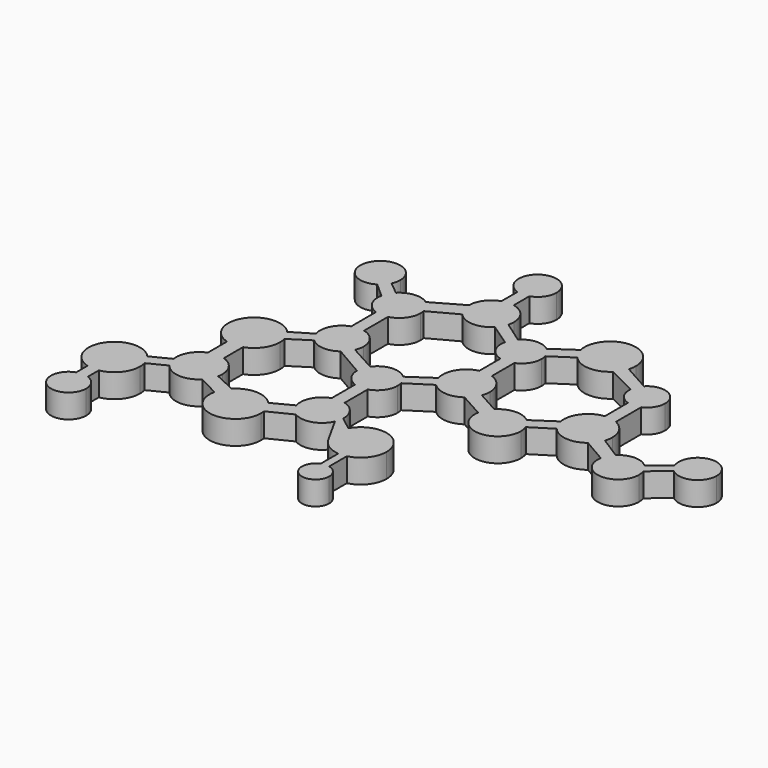
from build123d import *

# Parameters (mm, degrees)
F1_DEPTH = 5


with BuildPart() as f1:
    # F0 (on Top) → F1 (new body)
    with BuildSketch(Plane.XY):
        with BuildLine():
            ThreePointArc((-2.512901, 28.348197), (-2.385197, 28.974686), (-2.342373, 29.612623))
            ThreePointArc((-2.342373, 29.612623), (-3.406358, 32.616741), (-6.12395, 34.281519))
            ThreePointArc((-6.12395, 34.281519), (-7.376075, 34.378495), (-8.610151, 34.145518))
            ThreePointArc((-8.610151, 34.145518), (-10.959029, 32.442428), (-11.88768, 29.693728))
            ThreePointArc((-11.88768, 29.693728), (-11.593923, 27.962144), (-10.693759, 26.454039))
            ThreePointArc((-10.693759, 26.454039), (-7.24125, 24.841285), (-3.708507, 26.269752))
            ThreePointArc((-3.708507, 26.269752), (-2.97806, 27.232673), (-2.512901, 28.348197))
        make_face()
        with BuildLine():
            ThreePointArc((-8.610151, 34.145518), (-7.376075, 34.378495), (-6.12395, 34.281519))
            Line((-6.12395, 34.281519), (-6.12395, 38.365381))
            ThreePointArc((-6.12395, 38.365381), (-7.365254, 38.155358), (-8.610151, 38.342921))
            Line((-8.610151, 38.342921), (-8.610151, 34.145518))
        make_face()
        with BuildLine():
            Line((2.028401, 25.147591), (-2.512901, 28.348197))
            ThreePointArc((-2.512901, 28.348197), (-2.97806, 27.232673), (-3.708507, 26.269752))
            Line((-3.708507, 26.269752), (0.956797, 23.122228))
            ThreePointArc((0.956797, 23.122228), (1.354238, 24.208115), (2.028401, 25.147591))
        make_face()
        with BuildLine():
            ThreePointArc((-8.610151, 38.342921), (-7.365254, 38.155358), (-6.12395, 38.365381))
            ThreePointArc((-6.12395, 38.365381), (-4.162281, 39.817822), (-3.415, 42.14146))
            ThreePointArc((-3.415, 42.14146), (-9.754068, 45.359321), (-8.610151, 38.342921))
        make_face()
        with BuildLine():
            ThreePointArc((7.768494, 25.568769), (4.816849, 26.470256), (2.028401, 25.147591))
            ThreePointArc((2.028401, 25.147591), (1.354238, 24.208115), (0.956797, 23.122228))
            ThreePointArc((0.956797, 23.122228), (1.479569, 19.992557), (4.016816, 18.087169))
            ThreePointArc((4.016816, 18.087169), (5.418854, 17.949533), (6.789399, 18.275511))
            ThreePointArc((6.789399, 18.275511), (8.688275, 19.849404), (9.400389, 22.21071))
            ThreePointArc((9.400389, 22.21071), (9.361672, 22.78449), (9.246222, 23.347867))
            ThreePointArc((9.246222, 23.347867), (8.685198, 24.576648), (7.768494, 25.568769))
        make_face()
        with BuildLine():
            ThreePointArc((-10.693759, 26.454039), (-11.593923, 27.962144), (-11.88768, 29.693728))
            Line((-11.88768, 29.693728), (-18.130669, 26.134193))
            ThreePointArc((-18.130669, 26.134193), (-16.995943, 24.930095), (-16.372826, 23.397392))
            Line((-16.372826, 23.397392), (-10.693759, 26.454039))
        make_face()
        with BuildLine():
            Line((12.37725, 28.724332), (7.768494, 25.568769))
            ThreePointArc((7.768494, 25.568769), (8.685198, 24.576648), (9.246222, 23.347867))
            Line((9.246222, 23.347867), (13.650385, 26.263589))
            ThreePointArc((13.650385, 26.263589), (12.85362, 27.411078), (12.37725, 28.724332))
        make_face()
        with BuildLine():
            ThreePointArc((-16.372826, 23.397392), (-16.995943, 24.930095), (-18.130669, 26.134193))
            ThreePointArc((-18.130669, 26.134193), (-21.155864, 26.983721), (-23.999866, 25.647622))
            ThreePointArc((-23.999866, 25.647622), (-24.774722, 24.580752), (-25.207246, 23.335145))
            ThreePointArc((-25.207246, 23.335145), (-24.684787, 20.249558), (-22.277385, 18.25))
            ThreePointArc((-22.277385, 18.25), (-20.982767, 17.999458), (-19.671088, 18.134767))
            ThreePointArc((-19.671088, 18.134767), (-17.228762, 19.735), (-16.281887, 22.497089))
            ThreePointArc((-16.281887, 22.497089), (-16.30468, 22.949531), (-16.372826, 23.397392))
        make_face()
        with BuildLine():
            ThreePointArc((23.068472, 29.897043), (17.068672, 35.274716), (12.37725, 28.724332))
            ThreePointArc((12.37725, 28.724332), (12.85362, 27.411078), (13.650385, 26.263589))
            ThreePointArc((13.650385, 26.263589), (17.457176, 24.490864), (21.385296, 25.975481))
            ThreePointArc((21.385296, 25.975481), (22.264261, 27.058963), (22.836908, 28.331199))
            ThreePointArc((22.836908, 28.331199), (23.010268, 29.105606), (23.068472, 29.897043))
        make_face()
        with BuildLine():
            ThreePointArc((-25.207246, 23.335145), (-24.774722, 24.580752), (-23.999866, 25.647622))
            Line((-23.999866, 25.647622), (-26.671424, 27.801608))
            ThreePointArc((-26.671424, 27.801608), (-27.335546, 26.808584), (-28.252173, 26.042457))
            Line((-28.252173, 26.042457), (-25.207246, 23.335145))
        make_face()
        with BuildLine():
            ThreePointArc((6.789399, 12.377739), (5.414321, 12.653934), (4.016816, 12.535176))
            ThreePointArc((4.016816, 12.535176), (0.854564, 10.22449), (0.345998, 6.341131))
            ThreePointArc((0.345998, 6.341131), (0.83709, 5.183793), (1.602744, 4.18661))
            ThreePointArc((1.602744, 4.18661), (4.713666, 2.734293), (8.024196, 3.643935))
            ThreePointArc((8.024196, 3.643935), (9.093902, 4.683648), (9.807103, 5.993846))
            ThreePointArc((9.807103, 5.993846), (10.030005, 6.828572), (10.10506, 7.689281))
            ThreePointArc((10.10506, 7.689281), (9.19239, 10.560485), (6.789399, 12.377739))
        make_face()
        with BuildLine():
            ThreePointArc((-28.252173, 26.042457), (-27.335546, 26.808584), (-26.671424, 27.801608))
            ThreePointArc((-26.671424, 27.801608), (-26.363062, 28.686888), (-26.258542, 29.618491))
            ThreePointArc((-26.258542, 29.618491), (-34.134529, 31.665597), (-28.252173, 26.042457))
        make_face()
        with BuildLine():
            Line((-19.671088, 11.856936), (-19.671088, 18.134767))
            ThreePointArc((-19.671088, 18.134767), (-20.982767, 17.999458), (-22.277385, 18.25))
            Line((-22.277385, 18.25), (-22.277385, 11.745098))
            ThreePointArc((-22.277385, 11.745098), (-20.982347, 11.990022), (-19.671088, 11.856936))
        make_face()
        with BuildLine():
            ThreePointArc((1.602744, 4.18661), (0.83709, 5.183793), (0.345998, 6.341131))
            Line((0.345998, 6.341131), (-4.433287, 3.086999))
            ThreePointArc((-4.433287, 3.086999), (-3.702203, 2.157639), (-3.253151, 1.063771))
            Line((-3.253151, 1.063771), (1.602744, 4.18661))
        make_face()
        with BuildLine():
            ThreePointArc((22.836908, 28.331199), (22.264261, 27.058963), (21.385296, 25.975481))
            Line((21.385296, 25.975481), (27.546038, 22.882979))
            ThreePointArc((27.546038, 22.882979), (27.87491, 24.088891), (28.577364, 25.122788))
            Line((28.577364, 25.122788), (22.836908, 28.331199))
        make_face()
        with BuildLine():
            ThreePointArc((-16.194333, 7.40306), (-17.166435, 10.228164), (-19.671088, 11.856936))
            ThreePointArc((-19.671088, 11.856936), (-20.982347, 11.990022), (-22.277385, 11.745098))
            ThreePointArc((-22.277385, 11.745098), (-24.869004, 9.501652), (-25.184463, 6.088439))
            ThreePointArc((-25.184463, 6.088439), (-24.685979, 4.981212), (-23.914664, 4.043389))
            ThreePointArc((-23.914664, 4.043389), (-21.058132, 2.819978), (-18.076711, 3.696129))
            ThreePointArc((-18.076711, 3.696129), (-17.190428, 4.547486), (-16.561733, 5.603445))
            ThreePointArc((-16.561733, 5.603445), (-16.287121, 6.484692), (-16.194333, 7.40306))
        make_face()
        with BuildLine():
            ThreePointArc((-3.253151, 1.063771), (-3.702203, 2.157639), (-4.433287, 3.086999))
            ThreePointArc((-4.433287, 3.086999), (-7.798477, 4.263881), (-10.888377, 2.485659))
            ThreePointArc((-10.888377, 2.485659), (-11.479957, 1.304884), (-11.683607, 0))
            ThreePointArc((-11.683607, 0), (-10.902198, -2.466155), (-8.843142, -4.0323))
            ThreePointArc((-8.843142, -4.0323), (-7.497297, -4.281266), (-6.141642, -4.092897))
            ThreePointArc((-6.141642, -4.092897), (-3.956515, -2.544044), (-3.118922, 0))
            ThreePointArc((-3.118922, 0), (-3.152612, 0.536103), (-3.253151, 1.063771))
        make_face()
        with BuildLine():
            ThreePointArc((28.577364, 25.122788), (27.87491, 24.088891), (27.546038, 22.882979))
            ThreePointArc((27.546038, 22.882979), (28.157064, 20.404347), (30.19894, 18.872124))
            ThreePointArc((30.19894, 18.872124), (31.553198, 18.708063), (32.878095, 19.032992))
            ThreePointArc((32.878095, 19.032992), (34.513694, 20.434498), (35.124331, 22.500054))
            ThreePointArc((35.124331, 22.500054), (32.738189, 26.026438), (28.577364, 25.122788))
        make_face()
        with BuildLine():
            Line((14.486488, 3.401308), (9.807103, 5.993846))
            ThreePointArc((9.807103, 5.993846), (9.093902, 4.683648), (8.024196, 3.643935))
            Line((8.024196, 3.643935), (13.158897, 0.800944))
            ThreePointArc((13.158897, 0.800944), (13.622197, 2.203487), (14.486488, 3.401308))
        make_face()
        with BuildLine():
            ThreePointArc((32.878095, 19.032992), (31.553198, 18.708063), (30.19894, 18.872124))
            Line((30.19894, 18.872124), (30.19894, 12.79739))
            ThreePointArc((30.19894, 12.79739), (31.567207, 12.763881), (32.878095, 12.370369))
            Line((32.878095, 12.370369), (32.878095, 19.032992))
        make_face()
        with BuildLine():
            ThreePointArc((-23.914664, 4.043389), (-24.685979, 4.981212), (-25.184463, 6.088439))
            Line((-25.184463, 6.088439), (-29.265454, 3.633561))
            ThreePointArc((-29.265454, 3.633561), (-28.529094, 2.588147), (-28.057116, 1.399722))
            Line((-28.057116, 1.399722), (-23.914664, 4.043389))
        make_face()
        with BuildLine():
            ThreePointArc((21.046315, 3.717881), (17.704595, 4.840304), (14.486488, 3.401308))
            ThreePointArc((14.486488, 3.401308), (13.622197, 2.203487), (13.158897, 0.800944))
            ThreePointArc((13.158897, 0.800944), (17.536329, -4.829247), (22.784123, 0))
            ThreePointArc((22.784123, 0), (22.709689, 0.84609), (22.488672, 1.666188))
            ThreePointArc((22.488672, 1.666188), (21.902522, 2.78696), (21.046315, 3.717881))
        make_face()
        with BuildLine():
            ThreePointArc((32.878095, 12.370369), (31.567207, 12.763881), (30.19894, 12.79739))
            ThreePointArc((30.19894, 12.79739), (26.652717, 10.779466), (25.694945, 6.81331))
            ThreePointArc((25.694945, 6.81331), (26.097717, 5.525045), (26.822048, 4.3861))
            ThreePointArc((26.822048, 4.3861), (30.242634, 2.576576), (33.955704, 3.666482))
            ThreePointArc((33.955704, 3.666482), (34.963726, 4.73617), (35.627696, 6.047461))
            ThreePointArc((35.627696, 6.047461), (35.829256, 6.857398), (35.897039, 7.689281))
            ThreePointArc((35.897039, 7.689281), (35.076846, 10.474357), (32.878095, 12.370369))
        make_face()
        with BuildLine():
            ThreePointArc((-28.057116, 1.399722), (-28.529094, 2.588147), (-29.265454, 3.633561))
            ThreePointArc((-29.265454, 3.633561), (-37.92047, 2.893084), (-34.828562, -5.224656))
            ThreePointArc((-34.828562, -5.224656), (-33.179256, -5.438155), (-31.542523, -5.143376))
            ThreePointArc((-31.542523, -5.143376), (-28.885063, -3.158826), (-27.873951, 0))
            ThreePointArc((-27.873951, 0), (-27.919937, 0.705828), (-28.057116, 1.399722))
        make_face()
        with BuildLine():
            Line((25.694945, 6.81331), (21.046315, 3.717881))
            ThreePointArc((21.046315, 3.717881), (21.902522, 2.78696), (22.488672, 1.666188))
            Line((22.488672, 1.666188), (26.822048, 4.3861))
            ThreePointArc((26.822048, 4.3861), (26.097717, 5.525045), (25.694945, 6.81331))
        make_face()
        with BuildLine():
            Line((-6.141642, -10.142677), (-6.141642, -4.092897))
            ThreePointArc((-6.141642, -4.092897), (-7.497297, -4.281266), (-8.843142, -4.0323))
            Line((-8.843142, -4.0323), (-8.843142, -10.199278))
            ThreePointArc((-8.843142, -10.199278), (-7.496686, -9.966062), (-6.141642, -10.142677))
        make_face()
        with BuildLine():
            ThreePointArc((-31.542523, -5.143376), (-33.179256, -5.438155), (-34.828562, -5.224656))
            Line((-34.828562, -5.224656), (-34.828562, -10.276242))
            ThreePointArc((-34.828562, -10.276242), (-33.195267, -9.934805), (-31.542523, -10.164297))
            Line((-31.542523, -10.164297), (-31.542523, -5.143376))
        make_face()
        with BuildLine():
            ThreePointArc((-2.845904, -14.520423), (-3.761942, -11.780599), (-6.141642, -10.142677))
            ThreePointArc((-6.141642, -10.142677), (-7.496686, -9.966062), (-8.843142, -10.199278))
            ThreePointArc((-8.843142, -10.199278), (-11.447471, -12.427693), (-11.761038, -15.840908))
            ThreePointArc((-11.761038, -15.840908), (-11.00533, -17.306462), (-9.7774, -18.406975))
            ThreePointArc((-9.7774, -18.406975), (-6.04032, -18.867736), (-3.233088, -16.358251))
            ThreePointArc((-3.233088, -16.358251), (-2.957953, -15.524559), (-2.847851, -14.653571))
            ThreePointArc((-2.847851, -14.653571), (-2.846391, -14.587004), (-2.845904, -14.520423))
        make_face()
        with BuildLine():
            ThreePointArc((-31.542523, -10.164297), (-33.195267, -9.934805), (-34.828562, -10.276242))
            ThreePointArc((-34.828562, -10.276242), (-37.251897, -12.371844), (-37.850688, -15.519153))
            ThreePointArc((-37.850688, -15.519153), (-37.511516, -16.72007), (-36.87851, -17.795497))
            ThreePointArc((-36.87851, -17.795497), (-33.34489, -19.669443), (-29.598742, -18.267827))
            ThreePointArc((-29.598742, -18.267827), (-28.738377, -17.117128), (-28.250911, -15.765569))
            ThreePointArc((-28.250911, -15.765569), (-28.179397, -15.288063), (-28.155481, -14.805824))
            ThreePointArc((-28.155481, -14.805824), (-29.092271, -11.932854), (-31.542523, -10.164297))
        make_face()
        with BuildLine():
            ThreePointArc((-9.7774, -18.406975), (-11.00533, -17.306462), (-11.761038, -15.840908))
            Line((-11.761038, -15.840908), (-15.921304, -18.00831))
            ThreePointArc((-15.921304, -18.00831), (-15.048287, -19.310911), (-14.585524, -20.80917))
            Line((-14.585524, -20.80917), (-9.7774, -18.406975))
        make_face()
        with BuildLine():
            Line((40.246875, 3.113453), (35.627696, 6.047461))
            ThreePointArc((35.627696, 6.047461), (34.963726, 4.73617), (33.955704, 3.666482))
            Line((33.955704, 3.666482), (38.997538, 0.745241))
            ThreePointArc((38.997538, 0.745241), (39.435293, 2.027952), (40.246875, 3.113453))
        make_face()
        with BuildLine():
            ThreePointArc((-36.87851, -17.795497), (-37.511516, -16.72007), (-37.850688, -15.519153))
            Line((-37.850688, -15.519153), (-41.763521, -17.504557))
            ThreePointArc((-41.763521, -17.504557), (-41.058507, -18.527357), (-40.605015, -19.683865))
            Line((-40.605015, -19.683865), (-36.87851, -17.795497))
        make_face()
        with BuildLine():
            Line((0, -16.866172), (-2.847851, -14.653571))
            ThreePointArc((-2.847851, -14.653571), (-2.957953, -15.524559), (-3.233088, -16.358251))
            Line((-3.233088, -16.358251), (0, -22.148411))
            ThreePointArc((0, -22.148411), (-0.687418, -19.507292), (0, -16.866172))
        make_face()
        with BuildLine():
            ThreePointArc((-14.585524, -20.80917), (-15.048287, -19.310911), (-15.921304, -18.00831))
            ThreePointArc((-15.921304, -18.00831), (-19.811276, -16.23112), (-23.776266, -17.83397))
            ThreePointArc((-23.776266, -17.83397), (-24.699752, -19.084454), (-25.229519, -20.545919))
            ThreePointArc((-25.229519, -20.545919), (-20.481062, -27.02164), (-14.52139, -21.639716))
            ThreePointArc((-14.52139, -21.639716), (-14.537448, -21.223206), (-14.585524, -20.80917))
        make_face()
        with BuildLine():
            ThreePointArc((46.205645, 3.2136), (43.206392, 4.345645), (40.246875, 3.113453))
            ThreePointArc((40.246875, 3.113453), (39.435293, 2.027952), (38.997538, 0.745241))
            ThreePointArc((38.997538, 0.745241), (42.90542, -4.330137), (47.625687, 0))
            ThreePointArc((47.625687, 0), (47.564242, 0.728245), (47.381642, 1.4359))
            ThreePointArc((47.381642, 1.4359), (46.904309, 2.397958), (46.205645, 3.2136))
        make_face()
        with BuildLine():
            ThreePointArc((-40.605015, -19.683865), (-41.058507, -18.527357), (-41.763521, -17.504557))
            ThreePointArc((-41.763521, -17.504557), (-50.416165, -18.16755), (-47.331594, -26.278853))
            ThreePointArc((-47.331594, -26.278853), (-46.103413, -26.481352), (-44.861431, -26.398174))
            ThreePointArc((-44.861431, -26.398174), (-41.679057, -24.536951), (-40.424615, -21.070248))
            ThreePointArc((-40.424615, -21.070248), (-40.469905, -20.371212), (-40.605015, -19.683865))
        make_face()
        with BuildLine():
            ThreePointArc((10.147416, -19.507292), (6.094555, -14.264545), (0, -16.866172))
            ThreePointArc((0, -16.866172), (-0.687418, -19.507292), (0, -22.148411))
            ThreePointArc((0, -22.148411), (1.811054, -24.07108), (4.315987, -24.908865))
            ThreePointArc((4.315987, -24.908865), (5.170807, -24.906745), (6.014651, -24.770188))
            ThreePointArc((6.014651, -24.770188), (8.990744, -22.853103), (10.147416, -19.507292))
        make_face()
        with BuildLine():
            ThreePointArc((-25.229519, -20.545919), (-24.699752, -19.084454), (-23.776266, -17.83397))
            Line((-23.776266, -17.83397), (-28.250911, -15.765569))
            ThreePointArc((-28.250911, -15.765569), (-28.738377, -17.117128), (-29.598742, -18.267827))
            Line((-29.598742, -18.267827), (-25.229519, -20.545919))
        make_face()
        with BuildLine():
            Line((50.073804, 6.331663), (46.205645, 3.2136))
            ThreePointArc((46.205645, 3.2136), (46.904309, 2.397958), (47.381642, 1.4359))
            Line((47.381642, 1.4359), (51.231033, 4.659686))
            ThreePointArc((51.231033, 4.659686), (50.544017, 5.420646), (50.073804, 6.331663))
        make_face()
        with BuildLine():
            ThreePointArc((-44.861431, -26.398174), (-46.103413, -26.481352), (-47.331594, -26.278853))
            Line((-47.331594, -26.278853), (-47.331594, -29.244313))
            ThreePointArc((-47.331594, -29.244313), (-46.09468, -29.042844), (-44.861431, -29.265657))
            Line((-44.861431, -29.265657), (-44.861431, -26.398174))
        make_face()
        with BuildLine():
            ThreePointArc((57.808035, 7.689281), (53.132579, 11.615521), (50.073804, 6.331663))
            ThreePointArc((50.073804, 6.331663), (50.544017, 5.420646), (51.231033, 4.659686))
            ThreePointArc((51.231033, 4.659686), (55.489546, 4.068666), (57.808035, 7.689281))
        make_face()
        with BuildLine():
            ThreePointArc((-44.861431, -29.265657), (-46.09468, -29.042844), (-47.331594, -29.244313))
            ThreePointArc((-47.331594, -29.244313), (-48.276225, -35.757658), (-42.425132, -32.744237))
            ThreePointArc((-42.425132, -32.744237), (-43.09478, -30.620792), (-44.861431, -29.265657))
        make_face()
        with BuildLine():
            ThreePointArc((6.014651, -24.770188), (5.170807, -24.906745), (4.315987, -24.908865))
            Line((4.315987, -24.908865), (4.315987, -29.570114))
            ThreePointArc((4.315987, -29.570114), (5.154846, -29.371967), (6.014651, -29.432655))
            Line((6.014651, -29.432655), (6.014651, -24.770188))
        make_face()
        with BuildLine():
            ThreePointArc((6.014651, -29.432655), (5.154846, -29.371967), (4.315987, -29.570114))
            ThreePointArc((4.315987, -29.570114), (3.784808, -34.594885), (8.246613, -32.223648))
            ThreePointArc((8.246613, -32.223648), (7.620003, -30.4368), (6.014651, -29.432655))
        make_face()
        with BuildLine():
            ThreePointArc((-11.683607, 0), (-11.479957, 1.304884), (-10.888377, 2.485659))
            Line((-10.888377, 2.485659), (-16.561733, 5.603445))
            ThreePointArc((-16.561733, 5.603445), (-17.190428, 4.547486), (-18.076711, 3.696129))
            Line((-18.076711, 3.696129), (-11.683607, 0))
        make_face()
        with BuildLine():
            ThreePointArc((6.789399, 18.275511), (5.418854, 17.949533), (4.016816, 18.087169))
            Line((4.016816, 18.087169), (4.016816, 12.535176))
            ThreePointArc((4.016816, 12.535176), (5.414321, 12.653934), (6.789399, 12.377739))
            Line((6.789399, 12.377739), (6.789399, 18.275511))
        make_face()
    extrude(amount=F1_DEPTH)


solid = f1.part
